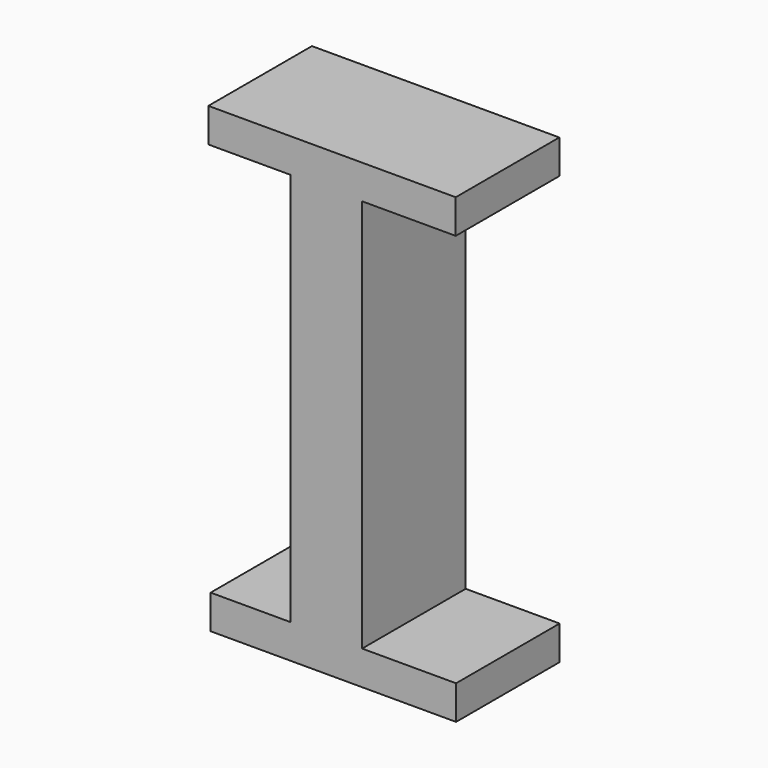
from build123d import *

# Parameters (mm, degrees)
F0_W     = 4.2091126258
F0_H     = 23.15
F1_DEPTH = 7.611
F2_W     = 2.1045563129
F2_H     = 7.611
F2_W_2   = 5.5041293296
F3_DEPTH = 2
F4_W     = 4.8296524825
F4_H     = 7.611
F4_W_2   = 2.1045563129
F5_DEPTH = 2
F6_W     = 2.1045563129
F6_H     = 7.611
F6_W_2   = 5.5243599842
F7_DEPTH = 2
F8_W     = 2.1045563129
F8_H     = 7.611
F8_W_2   = 4.695874514
F9_DEPTH = 2


with BuildPart() as f1:
    # F0 (on Front) → F1 (new body)
    with BuildSketch(Plane.XZ):
        Rectangle(F0_W, F0_H)
    extrude(amount=F1_DEPTH)

    # F2 (on face) → F3 (join)
    with BuildSketch(Plane.XY.offset(11.575)):
        with Locations((1.0522781564, -3.8055)):
            Rectangle(F2_W, F2_H)
        with Locations((4.8566209777, -3.8055)):
            Rectangle(F2_W_2, F2_H)
    extrude(amount=F3_DEPTH)

    # F4 (on face) → F5 (join)
    with BuildSketch(Plane.XY.offset(11.575)):
        with Locations((-4.5193825542, -3.8055)):
            Rectangle(F4_W, F4_H)
        with Locations((-1.0522781564, -3.8055)):
            Rectangle(F4_W_2, F4_H)
    extrude(amount=F5_DEPTH)

    # F6 (on face) → F7 (join)
    with BuildSketch(Plane(origin=(0, 0, -11.575), x_dir=(1, 0, 0), z_dir=(0, 0, -1))):
        with Locations((1.0522781564, 3.8055)):
            Rectangle(F6_W, F6_H)
        with Locations((4.866736305, 3.8055)):
            Rectangle(F6_W_2, F6_H)
    extrude(amount=F7_DEPTH)

    # F8 (on face) → F9 (join)
    with BuildSketch(Plane(origin=(0, 0, -11.575), x_dir=(1, 0, 0), z_dir=(0, 0, -1))):
        with Locations((-1.0522781564, 3.8055)):
            Rectangle(F8_W, F8_H)
        with Locations((-4.4524935699, 3.8055)):
            Rectangle(F8_W_2, F8_H)
    extrude(amount=F9_DEPTH)


solid = f1.part
